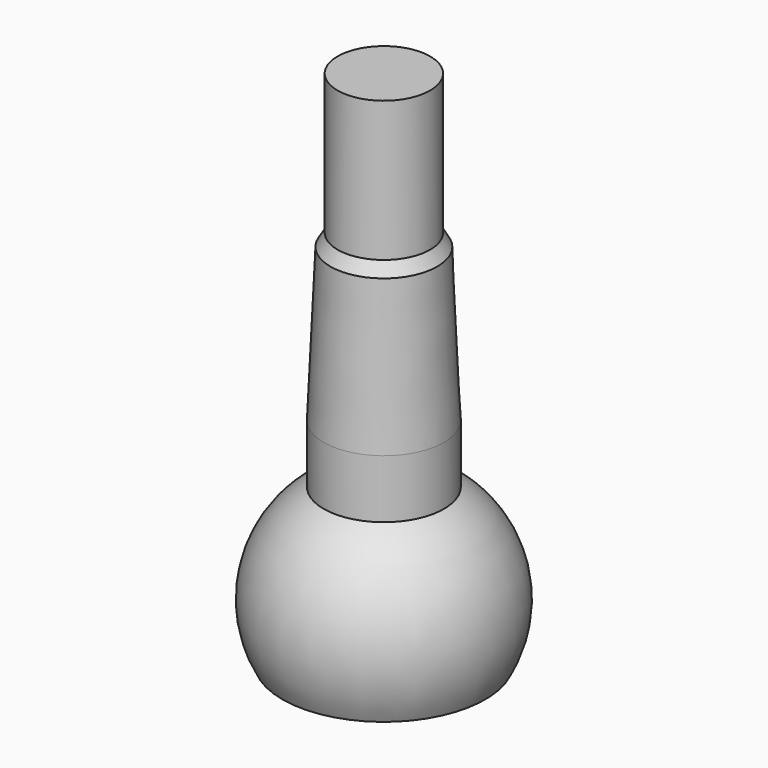
from build123d import *


with BuildPart() as f1:
    # F0 (on Front) → F1 (revolve)
    with BuildSketch(Plane.XZ):
        with BuildLine():
            Line((-6.5, 17), (-6.5, 10.677078))
            ThreePointArc((-6.5, 10.677078), (-12.074571, 3.233378), (-10.965856, -6))
            Line((-10.965856, -6), (0, -6))
            Line((0, -6), (0, 50))
            Line((0, 50), (-5, 50))
            Line((-5, 50), (-5, 34.850297))
            Line((-5, 34.850297), (-5.779594, 33.5))
            Line((-5.779594, 33.5), (-6.5, 17))
        make_face()
    revolve(axis=Axis((0, 0, 20.436795), (0, 0, 1)))


solid = f1.part
